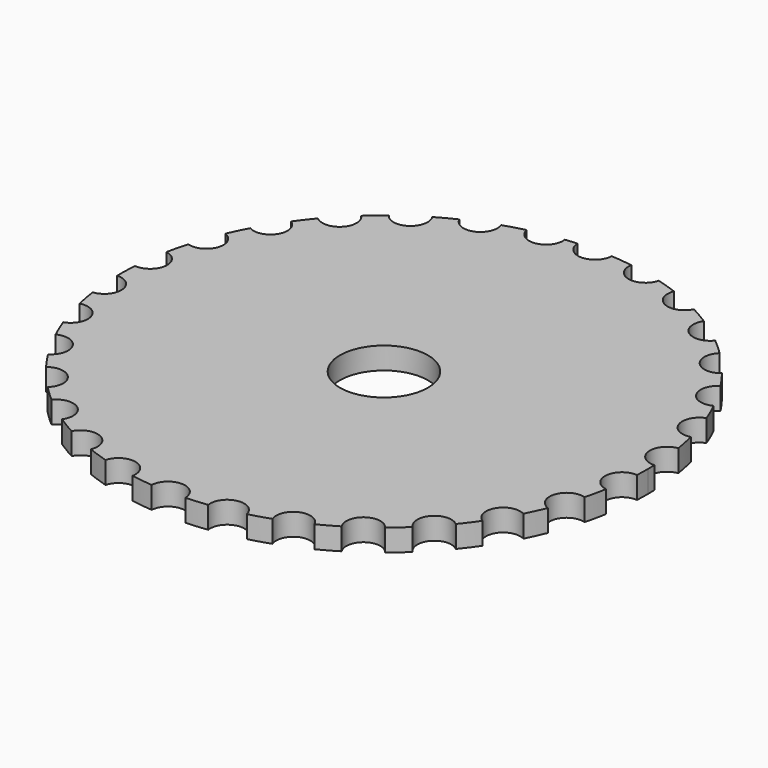
from build123d import *

# Parameters (mm, degrees)
F0_R     = 25.4
F1_DEPTH = 12.7


with BuildPart() as f1:
    # F0 (on Top) → F1 (new body)
    with BuildSketch(Plane.XY):
        with BuildLine():
            ThreePointArc((152.210637, -7.594865), (152.352652, -3.798613), (152.4, 0))
            ThreePointArc((152.4, 0), (152.380736, 2.423103), (152.322947, 4.845593))
            ThreePointArc((152.322947, 4.845593), (141.912408, 13.707712), (150.434272, 24.398564))
            ThreePointArc((150.434272, 24.398564), (149.313035, 30.518479), (147.942937, 36.587529))
            ThreePointArc((147.942937, 36.587529), (135.909535, 43.077036), (142.007699, 55.313412))
            ThreePointArc((142.007699, 55.313412), (139.631639, 61.063618), (137.022854, 66.712049))
            ThreePointArc((137.022854, 66.712049), (123.898547, 70.542066), (127.30343, 83.783034))
            ThreePointArc((127.30343, 83.783034), (123.777584, 88.909334), (120.045438, 93.887448))
            ThreePointArc((120.045438, 93.887448), (106.410408, 94.888661), (106.971492, 108.548883))
            ThreePointArc((106.971492, 108.548883), (102.451727, 112.824659), (97.761205, 116.912389))
            ThreePointArc((97.761205, 116.912389), (84.218213, 115.040539), (81.910694, 128.51614))
            ThreePointArc((81.910694, 128.51614), (76.596814, 131.752374), (71.155269, 134.769016))
            ThreePointArc((71.155269, 134.769016), (58.303006, 130.10685), (53.228892, 142.802119))
            ThreePointArc((53.228892, 142.802119), (47.355806, 144.855748), (41.403792, 146.667945))
            ThreePointArc((41.403792, 146.667945), (29.810413, 139.421563), (22.194015, 150.775282))
            ThreePointArc((22.194015, 150.775282), (16.021353, 151.555522), (9.821987, 152.083163))
            ThreePointArc((9.821987, 152.083163), (0, 142.572904), (-9.821987, 152.083163))
            ThreePointArc((-9.821987, 152.083163), (-13.282535, 151.820072), (-16.736195, 151.478249))
            ThreePointArc((-16.736195, 151.478249), (-16.661745, 150.783242), (-16.636886, 150.084702))
            ThreePointArc((-16.636886, 150.084702), (-25.44977, 140.310082), (-36.081733, 148.067108))
            ThreePointArc((-36.081733, 148.067108), (-42.095292, 146.470974), (-48.038691, 144.630717))
            ThreePointArc((-48.038691, 144.630717), (-47.5856, 142.959149), (-47.43299, 141.233999))
            ThreePointArc((-47.43299, 141.233999), (-55.223917, 131.620163), (-66.243396, 137.250036))
            ThreePointArc((-66.243396, 137.250036), (-71.790301, 134.431814), (-77.217553, 131.389533))
            ThreePointArc((-77.217553, 131.389533), (-76.085391, 128.872443), (-75.697812, 126.139803))
            ThreePointArc((-75.697812, 126.139803), (-82.489349, 116.793296), (-93.476655, 120.365589))
            ThreePointArc((-93.476655, 120.365589), (-98.311696, 116.449862), (-102.98288, 112.340048))
            ThreePointArc((-102.98288, 112.340048), (-100.909017, 109.179225), (-100.181858, 105.469379))
            ThreePointArc((-100.181858, 105.469379), (-106.007645, 96.493782), (-116.577616, 98.160172))
            ThreePointArc((-116.577616, 98.160172), (-120.487052, 93.320043), (-124.19567, 88.324377))
            ThreePointArc((-124.19567, 88.324377), (-120.970356, 84.782436), (-119.802768, 80.136498))
            ThreePointArc((-119.802768, 80.136498), (-124.707149, 71.631282), (-134.525062, 71.615415))
            ThreePointArc((-134.525062, 71.615415), (-137.336068, 66.064849), (-139.918176, 60.404173))
            ThreePointArc((-139.918176, 60.404173), (-135.39715, 56.791586), (-133.693165, 51.261044))
            ThreePointArc((-133.693165, 51.261044), (-137.730696, 43.320467), (-146.525595, 41.904774))
            ThreePointArc((-146.525595, 41.904774), (-148.113906, 35.889145), (-149.455356, 29.813698))
            ThreePointArc((-149.455356, 29.813698), (-143.569406, 26.473362), (-141.239, 20.119508))
            ThreePointArc((-141.239, 20.119508), (-144.473844, 12.83157), (-152.048709, 10.341661))
            ThreePointArc((-152.048709, 10.341661), (-152.344113, 4.126898), (-152.385603, -2.094742))
            ThreePointArc((-152.385603, -2.094742), (-145.146605, -4.804697), (-142.106697, -11.911447))
            ThreePointArc((-142.106697, -11.911447), (-144.611911, -18.465977), (-150.850248, -21.678624))
            ThreePointArc((-150.850248, -21.678624), (-149.839684, -27.817785), (-148.579381, -33.910582))
            ThreePointArc((-148.579381, -33.910582), (-140.082526, -35.634948), (-136.257897, -43.415835))
            ThreePointArc((-136.257897, -43.415835), (-138.114625, -49.164318), (-142.98319, -52.740568))
            ThreePointArc((-142.98319, -52.740568), (-140.711332, -58.532735), (-138.20495, -64.227345))
            ThreePointArc((-138.20495, -64.227345), (-128.627028, -64.632158), (-123.951157, -73.000952))
            ThreePointArc((-123.951157, -73.000952), (-125.24773, -77.87968), (-128.795312, -81.471023))
            ThreePointArc((-128.795312, -81.471023), (-125.362592, -86.660144), (-121.72093, -91.704827))
            ThreePointArc((-121.72093, -91.704827), (-111.314719, -90.494981), (-105.730518, -99.358934))
            ThreePointArc((-105.730518, -99.358934), (-106.561474, -103.31384), (-108.913814, -106.599911))
            ThreePointArc((-108.913814, -106.599911), (-104.471982, -110.956591), (-99.856025, -115.128338))
            ThreePointArc((-99.856025, -115.128338), (-88.941006, -112.063704), (-82.401454, -121.324583))
            ThreePointArc((-82.401454, -121.324583), (-82.866492, -124.311837), (-84.217593, -127.016365))
            ThreePointArc((-84.217593, -127.016365), (-78.963006, -130.34801), (-73.576812, -133.462402))
            ThreePointArc((-73.576812, -133.462402), (-62.526605, -128.371697), (-54.995268, -137.926869))
            ThreePointArc((-54.995268, -137.926869), (-55.198142, -139.913365), (-55.798387, -141.817841))
            ThreePointArc((-55.798387, -141.817841), (-49.963335, -143.977169), (-44.045008, -145.896529))
            ThreePointArc((-44.045008, -145.896529), (-33.272061, -138.688287), (-24.723496, -148.431858))
            ThreePointArc((-24.723496, -148.431858), (-24.770866, -149.395581), (-24.912517, -150.350013))
            ThreePointArc((-24.912517, -150.350013), (-18.754947, -151.241568), (-12.566119, -151.881048))
            ThreePointArc((-12.566119, -151.881048), (-2.574032, -142.549666), (7.074654, -152.235703))
            ThreePointArc((7.074654, -152.235703), (13.282535, -151.820072), (19.468278, -151.151401))
            ThreePointArc((19.468278, -151.151401), (27.288417, -139.93704), (38.749078, -147.39155))
            ThreePointArc((38.749078, -147.39155), (44.73284, -145.687107), (50.642046, -143.739846))
            ThreePointArc((50.642046, -143.739846), (55.944534, -131.138255), (68.710532, -136.031698))
            ThreePointArc((68.710532, -136.031698), (74.205652, -133.11379), (79.577094, -129.974021))
            ThreePointArc((79.577094, -129.974021), (82.127527, -116.542276), (95.634518, -118.658329))
            ThreePointArc((95.634518, -118.658329), (100.398075, -114.655948), (104.994299, -110.46247))
            ThreePointArc((104.994299, -110.46247), (104.67993, -96.794345), (118.330814, -96.039463))
            ThreePointArc((118.330814, -96.039463), (122.152227, -91.129542), (125.770049, -86.067734))
            ThreePointArc((125.770049, -86.067734), (122.604775, -72.767451), (135.796091, -69.175007))
            ThreePointArc((135.796091, -69.175007), (138.506429, -63.574596), (140.985916, -57.868224))
            ThreePointArc((140.985916, -57.868224), (135.109664, -45.523746), (147.258268, -39.252549))
            ThreePointArc((147.258268, -39.252549), (148.737713, -33.209225), (149.969257, -27.11055))
            ThreePointArc((149.969257, -27.11055), (141.641797, -16.267586), (152.210637, -7.594865))
        make_face()
        Circle(F0_R, mode=Mode.SUBTRACT)
    extrude(amount=F1_DEPTH)


solid = f1.part
